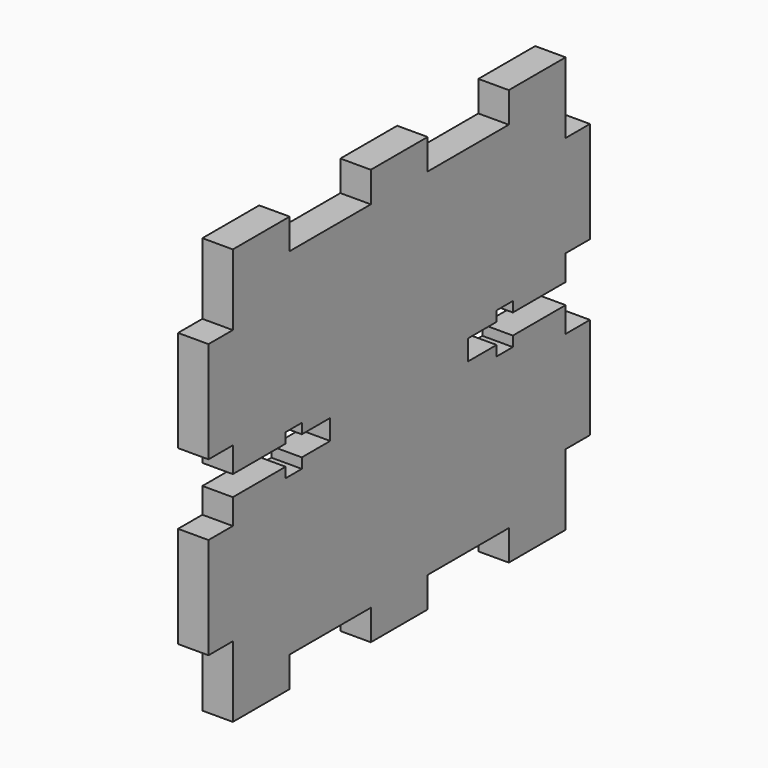
from build123d import *

# Parameters (mm, degrees)
F1_DEPTH = 3


with BuildPart() as f1:
    # F0 (on Right) → F1 (new body)
    with BuildSketch(Plane.YZ):
        Polygon((20.5, 0), (24, 0), (24, 3), (34, 3), (34, 0), (41, 0), (41, 7), (44, 7), (44, 17), (41, 17), (41, 19.5), (34.5, 19.5), (34.5, 18.5), (32.5, 18.5), (32.5, 19.5), (29, 19.5), (29, 20.5), (29, 21.5), (32.5, 21.5), (32.5, 22.5), (34.5, 22.5), (34.5, 21.5), (41, 21.5), (41, 24), (44, 24), (44, 34), (41, 34), (41, 41), (34, 41), (34, 38), (24, 38), (24, 41), (20.5, 41), (17, 41), (17, 38), (7, 38), (7, 41), (0, 41), (0, 34), (-3, 34), (-3, 24), (0, 24), (0, 21.5), (6.5, 21.5), (6.5, 22.5), (8.5, 22.5), (8.5, 21.5), (12, 21.5), (12, 20.5), (12, 19.5), (8.5, 19.5), (8.5, 18.5), (6.5, 18.5), (6.5, 19.5), (0, 19.5), (0, 17), (-3, 17), (-3, 7), (0, 7), (0, 0), (7, 0), (7, 3), (17, 3), (17, 0), align=None)
    extrude(amount=F1_DEPTH)


solid = f1.part
